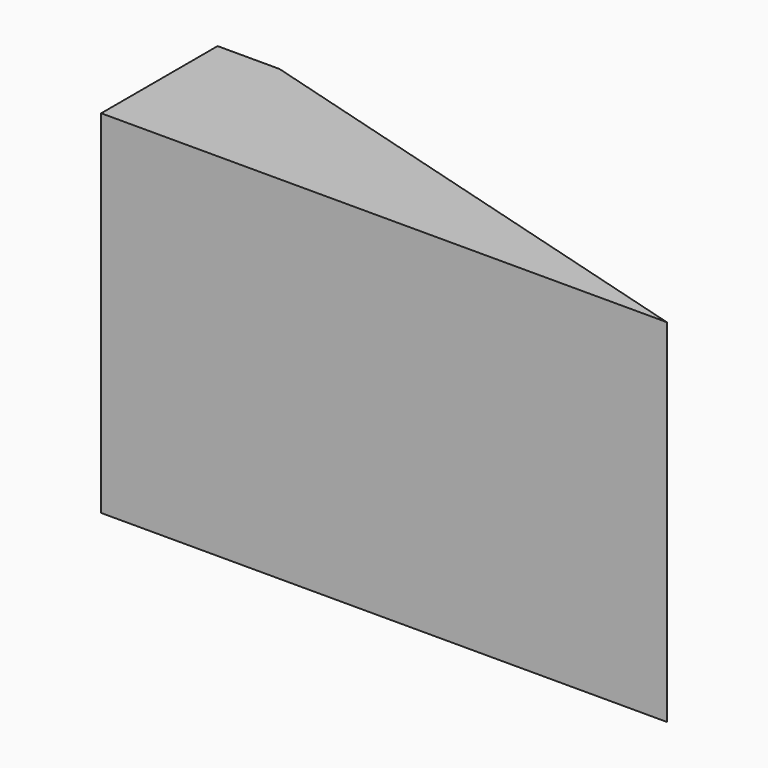
from build123d import *

# Parameters (mm, degrees)
F1_DEPTH = 74.676
F2_W     = 65.046132
F2_H     = 38.793292
F3_DEPTH = 123.19
F4_W     = 75.36434
F4_H     = 42.812191
F5_DEPTH = 78.74
F6_W     = 15.368398
F6_H     = 37.422214
F7_DEPTH = 116.84


with BuildPart() as f1:
    # F0 (on Top) → F1 (new body)
    with BuildSketch(Plane.XY):
        Polygon((-37.479065, 17.799251), (-62.800989, 17.799251), (-62.800989, -30.872758), (69.400154, -30.872758), (-37.479065, 0), align=None)
    extrude(amount=F1_DEPTH)

    # F2 (on Top) → F3 (cut)
    with BuildSketch(Plane.XY):
        with Locations((-32.523066, 19.396646)):
            Rectangle(F2_W, F2_H)
    extrude(amount=F3_DEPTH, mode=Mode.SUBTRACT)

    # F4 (on Top) → F5 (cut)
    with BuildSketch(Plane.XY):
        with Locations((-96.438488, -21.406095)):
            Rectangle(F4_W, F4_H)
    extrude(amount=F5_DEPTH, mode=Mode.SUBTRACT)

    # F6 (on Top) → F7 (cut)
    with BuildSketch(Plane.XY):
        with Locations((-58.310846, -18.711107)):
            Rectangle(F6_W, F6_H)
    extrude(amount=F7_DEPTH, mode=Mode.SUBTRACT)


solid = f1.part
